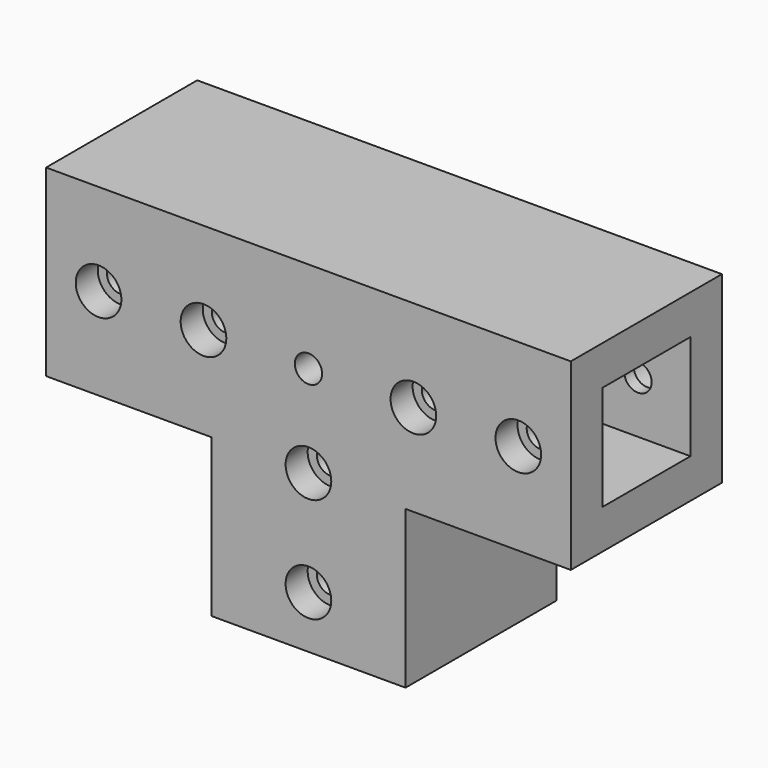
from build123d import *

# Parameters (mm, degrees)
F0_W      = 100
F0_H      = 36
F1_DEPTH  = 7.5
F2_W      = 100
F2_H      = 7.5
F3_DEPTH  = 20
F4_W      = 100
F4_H      = 36
F4_W_2    = 21
F4_H_2    = 21
F5_DEPTH  = 7.5
F6_W      = 37
F6_H      = 36
F6_W_2    = 21
F6_H_2    = 21
F7_DEPTH  = 30
F8_R      = 2.6
F9_DEPTH  = 60
F10_R     = 4.35
F11_DEPTH = 5.25
F12_R     = 4.35
F13_DEPTH = 5.25


with BuildPart() as f1:
    # F0 (on Top) → F1 (new body)
    with BuildSketch(Plane.XY):
        with Locations((-50, 18)):
            Rectangle(F0_W, F0_H)
    extrude(amount=F1_DEPTH)

    # F2 (on face) → F3 (join)
    with BuildSketch(Plane(origin=(0, 0, 0), x_dir=(1, 0, 0), z_dir=(0, 0, -1))):
        with Locations((-50, -3.75)):
            Rectangle(F2_W, F2_H)
        with Locations((-50, -32.25)):
            Rectangle(F2_W, F2_H)
    extrude(amount=F3_DEPTH)

    # F4 (on face) → F5 (join)
    with BuildSketch(Plane(origin=(0, 0, -20), x_dir=(1, 0, 0), z_dir=(0, 0, -1))):
        with Locations((-50, -18)):
            Rectangle(F4_W, F4_H)
        with Locations((-50, -18)):
            Rectangle(F4_W_2, F4_H_2, mode=Mode.SUBTRACT)
    extrude(amount=F5_DEPTH)

    # F6 (on face) → F7 (join)
    with BuildSketch(Plane(origin=(0, 0, -27.5), x_dir=(1, 0, 0), z_dir=(0, 0, -1))):
        with Locations((-50, -18)):
            Rectangle(F6_W, F6_H)
        with Locations((-50, -18)):
            Rectangle(F6_W_2, F6_H_2, mode=Mode.SUBTRACT)
    extrude(amount=F7_DEPTH)

    # F8 (on face) → F9 (cut)
    with BuildSketch(Plane.XZ):
        with Locations((-90, -10)):
            Circle(F8_R)
        with Locations((-50, -10)):
            Circle(F8_R)
        with Locations((-10, -10)):
            Circle(F8_R)
        with Locations((-30, -10)):
            Circle(F8_R)
        with Locations((-70, -10)):
            Circle(F8_R)
        with Locations((-50, -47.5)):
            Circle(F8_R)
        with Locations((-50, -27.5)):
            Circle(F8_R)
    extrude(amount=-F9_DEPTH, mode=Mode.SUBTRACT)

    # F10 (on face) → F11 (cut)
    with BuildSketch(Plane(origin=(0, 36, 0), x_dir=(-1, 0, 0), z_dir=(0, 1, 0))):
        with Locations((50, -47.5)):
            Circle(F10_R)
        with Locations((50, -27.5)):
            Circle(F10_R)
        with Locations((90, -10)):
            Circle(F10_R)
        with Locations((70, -10)):
            Circle(F10_R)
        with Locations((30, -10)):
            Circle(F10_R)
        with Locations((10, -10)):
            Circle(F10_R)
    extrude(amount=-F11_DEPTH, mode=Mode.SUBTRACT)

    # F12 (on face) → F13 (cut)
    with BuildSketch(Plane.XZ):
        with Locations((-90, -10)):
            Circle(F12_R)
        with Locations((-70, -10)):
            Circle(F12_R)
        with Locations((-30, -10)):
            Circle(F12_R)
        with Locations((-10, -10)):
            Circle(F12_R)
        with Locations((-50, -27.5)):
            Circle(F12_R)
        with Locations((-50, -47.5)):
            Circle(F12_R)
    extrude(amount=-F13_DEPTH, mode=Mode.SUBTRACT)


solid = f1.part
